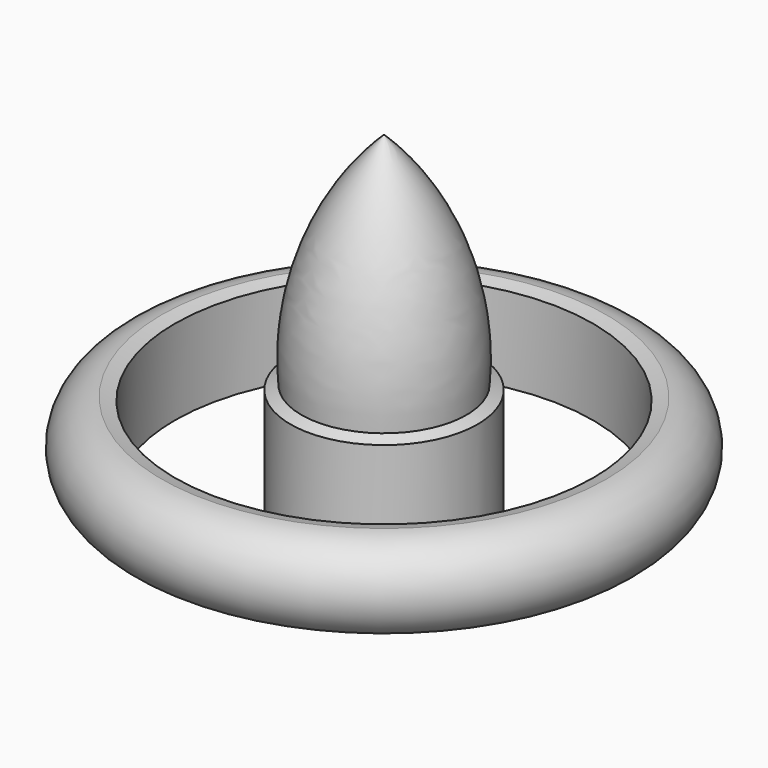
from build123d import *

# Parameters (mm, degrees)
F3_R     = 2
F4_R     = 19
F4_R_2   = 8.5
F5_DEPTH = 25


with BuildPart() as f2:
    # F0 (on Front) → F2 (revolve)
    with BuildSketch(Plane.XZ):
        with BuildLine():
            Line((0, 0), (0, 35))
            ThreePointArc((0, 35), (-5.993513, 25.841318), (-7.5, 15))
            ThreePointArc((-7.5, 15), (-13.771963, 13.365488), (-20.222276, 14))
            ThreePointArc((-20.222276, 14), (-24.006171, 10), (-20.222276, 6))
            ThreePointArc((-20.222276, 6), (-10.170315, 4.412269), (-1, 0))
            Line((-1, 0), (0, 0))
        make_face()
    revolve(axis=Axis((0, 0, 21.044377), (0, 0, 1)))

    # F3
    f3_edges = [f2.edges().sort_by_distance(p)[0] for p in [
        (1, 0, 0),
    ]]
    fillet(f3_edges, radius=F3_R)

    # F4 (on Top) → F5 (cut)
    with BuildSketch(Plane.XY):
        Circle(F4_R)
        Circle(F4_R_2, mode=Mode.SUBTRACT)
    extrude(amount=F5_DEPTH, mode=Mode.SUBTRACT)


solid = f2.part
